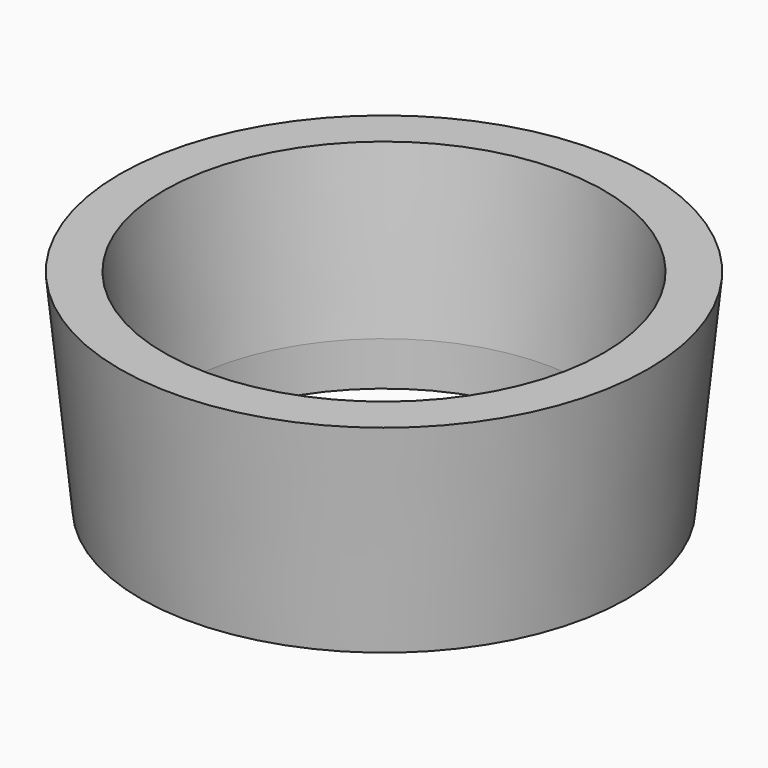
from build123d import *

# Parameters (mm, degrees)
F0_R     = 18.5
F2_R     = 20
F4_T     = 4
F5_R     = 18.5
F6_DEPTH = 25


with BuildPart() as f3:
    # F0 (on Top) → F3 section 0
    with BuildSketch(Plane.XY):
        Circle(F0_R)
    # F2 (on offset) → F3 section 1
    with BuildSketch(Plane.XY.offset(15)):
        Circle(F2_R)
    loft()

    # F4
    f4_openings = [f3.faces().sort_by_distance(p)[0] for p in [
        (0, 0, 15),
    ]]
    offset(amount=F4_T, openings=f4_openings, kind=Kind.INTERSECTION)

    # F5 (on face) → F6 (cut)
    with BuildSketch(Plane.XY):
        Circle(F5_R)
    extrude(amount=-F6_DEPTH, mode=Mode.SUBTRACT)


solid = f3.part
